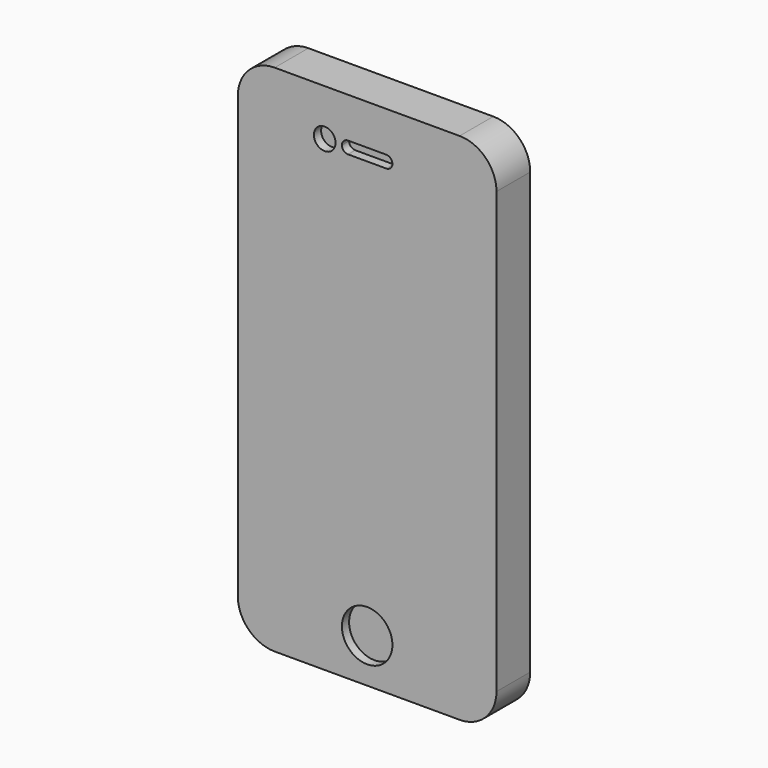
from build123d import *

# Parameters (mm, degrees)
F1_DEPTH = 9.34
F2_R     = 2.4
F2_R_2   = 5.6
F3_DEPTH = 2


with BuildPart() as f1:
    # F0 (on Front) → F1 (new body)
    with BuildSketch(Plane.XZ):
        with BuildLine():
            ThreePointArc((28.675, 48.7962), (26.279485, 54.579485), (20.4962, 56.975))
            Line((20.4962, 56.975), (-20.4962, 56.975))
            ThreePointArc((-20.4962, 56.975), (-26.279485, 54.579485), (-28.675, 48.7962))
            Line((-28.675, 48.7962), (-28.675, -48.7962))
            ThreePointArc((-28.675, -48.7962), (-26.279485, -54.579485), (-20.4962, -56.975))
            Line((-20.4962, -56.975), (20.4962, -56.975))
            ThreePointArc((20.4962, -56.975), (26.279485, -54.579485), (28.675, -48.7962))
            Line((28.675, -48.7962), (28.675, 48.7962))
        make_face()
    extrude(amount=F1_DEPTH)

    # F2 (on face) → F3 (cut)
    with BuildSketch(Plane.XZ.offset(9.34)):
        with Locations((-9.405, 46.685)):
            Circle(F2_R)
        with BuildLine():
            Line((-4.25, 45.335), (4.25, 45.335))
            ThreePointArc((4.25, 45.335), (5.204594, 45.730406), (5.6, 46.685))
            ThreePointArc((5.6, 46.685), (5.204594, 47.639594), (4.25, 48.035))
            Line((4.25, 48.035), (-4.25, 48.035))
            ThreePointArc((-4.25, 48.035), (-5.204594, 47.639594), (-5.6, 46.685))
            ThreePointArc((-5.6, 46.685), (-5.204594, 45.730406), (-4.25, 45.335))
        make_face()
        with Locations((0, -47.215)):
            Circle(F2_R_2)
    extrude(amount=-F3_DEPTH, mode=Mode.SUBTRACT)


solid = f1.part
